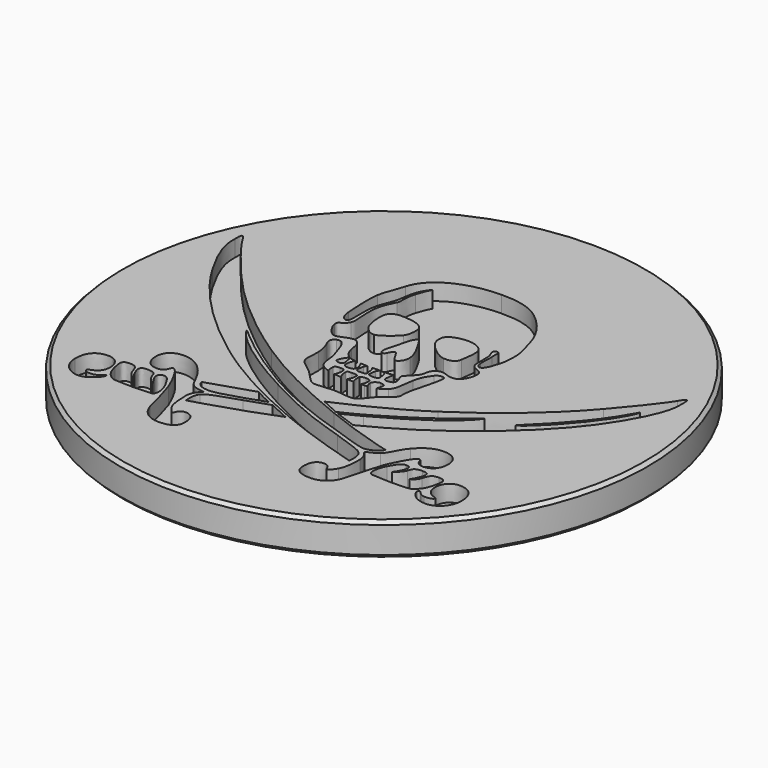
from build123d import *

# Parameters (mm, degrees)
POCKET_DEPTH = 1.25


with BuildPart() as part:
    # Sketch (on DatumPlane) → Revolution (revolve)
    with BuildSketch(Plane.YZ):
        Polygon((0, 0), (0, -2.5), (19.75, -2.5), (20, -2.25), (20, -0.25), (19.75, 0), align=None)
    revolve(axis=Axis((0, 0, 0), (0, 0, 1)))

    # Sketch005 → Pocket (cut)
    with BuildSketch(Plane.XY):
        with BuildLine():
            add(Edge.make_bspline(
                [(16.874234, 7.137182), (16.857089, 6.721201), (17.037826, 5.873595), (15.4612, 3.242552)],
                knots=[0, 0, 0, 0, 1, 1, 1, 1], degree=3))
            add(Edge.make_bspline(
                [(15.4612, 3.242552), (13.70098, 0.304327), (10.986355, -2.137406), (8.324594, -4.114796)],
                knots=[0, 0, 0, 0, 1, 1, 1, 1], degree=3))
            add(Edge.make_bspline(
                [(8.324594, -4.114796), (6.719393, -5.307088), (5.074188, -6.275066), (3.366117, -7.131602)],
                knots=[0, 0, 0, 0, 1, 1, 1, 1], degree=3))
            add(Edge.make_bspline(
                [(3.366117, -7.131602), (2.921776, -6.986584), (2.374564, -6.795846), (1.763059, -6.55653)],
                knots=[0, 0, 0, 0, 1, 1, 1, 1], degree=3))
            add(Edge.make_bspline(
                [(1.763059, -6.55653), (1.758773, -6.555816), (1.755201, -6.553673), (1.750915, -6.552244)],
                knots=[0, 0, 0, 0, 1, 1, 1, 1], degree=3))
            add(Edge.make_bspline(
                [(1.750915, -6.552244), (2.175254, -6.341503), (2.633883, -6.105759), (3.135374, -5.838583)],
                knots=[0, 0, 0, 0, 1, 1, 1, 1], degree=3))
            add(Edge.make_bspline(
                [(3.135374, -5.838583), (8.051703, -3.222542), (8.962531, -1.645202), (8.919668, -1.602339)],
                knots=[0, 0, 0, 0, 1, 1, 1, 1], degree=3))
            add(Edge.make_bspline(
                [(8.919668, -1.602339), (8.876806, -1.559477), (7.640937, -2.999657), (3.403264, -5.467108)],
                knots=[0, 0, 0, 0, 1, 1, 1, 1], degree=3))
            add(Edge.make_bspline(
                [(3.403264, -5.467108), (2.786044, -5.826439), (2.153823, -6.152194), (1.509456, -6.449374)],
                knots=[0, 0, 0, 0, 1, 1, 1, 1], degree=3))
            add(Edge.make_bspline(
                [(1.509456, -6.449374), (1.032254, -6.252206), (0.564338, -6.037179), (0.165003, -5.834297)],
                knots=[0, 0, 0, 0, 1, 1, 1, 1], degree=3))
            add(Edge.make_bspline(
                [(0.165003, -5.834297), (2.223117, -4.942043), (4.416248, -3.831189), (6.213616, -2.643184)],
                knots=[0, 0, 0, 0, 1, 1, 1, 1], degree=3))
            add(Edge.make_bspline(
                [(6.213616, -2.643184), (8.978961, -0.815098), (11.582858, 1.327312), (13.647402, 3.733328)],
                knots=[0, 0, 0, 0, 1, 1, 1, 1], degree=3))
            add(Edge.make_bspline(
                [(13.647402, 3.733328), (15.534066, 5.931031), (16.309163, 7.062672), (16.428464, 7.2857)],
                knots=[0, 0, 0, 0, 1, 1, 1, 1], degree=3))
            add(Edge.make_bspline(
                [(16.428464, 7.2857), (16.614916, 7.636315), (16.914953, 8.119304), (16.874234, 7.137182)],
                knots=[0, 0, 0, 0, 1, 1, 1, 1], degree=3))
        make_face()
        with BuildLine():
            add(Edge.make_bspline(
                [(15.619791, 4.719236), (15.561213, 4.739096), (15.144732, 3.649031), (13.657403, 1.825946)],
                knots=[0, 0, 0, 0, 1, 1, 1, 1], degree=3))
            add(Edge.make_bspline(
                [(13.657403, 1.825946), (12.173646, 0.006433), (10.842051, -1.087275), (10.902059, -1.146568)],
                knots=[0, 0, 0, 0, 1, 1, 1, 1], degree=3))
            add(Edge.make_bspline(
                [(10.902059, -1.146568), (10.961352, -1.205861), (12.098637, -0.399332), (13.835997, 1.766653)],
                knots=[0, 0, 0, 0, 1, 1, 1, 1], degree=3))
            add(Edge.make_bspline(
                [(13.835997, 1.766653), (15.399049, 3.714754), (15.679799, 4.699591), (15.619791, 4.719236)],
                knots=[0, 0, 0, 0, 1, 1, 1, 1], degree=3))
        make_face(mode=Mode.SUBTRACT)
        with BuildLine():
            add(Edge.make_bspline(
                [(4.662707, 3.323276), (4.444823, 3.263983), (4.336953, 3.529731), (4.320522, 3.748329)],
                knots=[0, 0, 0, 0, 1, 1, 1, 1], degree=3))
            add(Edge.make_bspline(
                [(4.320522, 3.748329), (4.280517, 4.263537), (4.368385, 4.571718), (4.325522, 4.846681)],
                knots=[0, 0, 0, 0, 1, 1, 1, 1], degree=3))
            add(Edge.make_bspline(
                [(4.325522, 4.846681), (4.277659, 5.158077), (4.447681, 5.66214), (4.059775, 5.495048)],
                knots=[0, 0, 0, 0, 1, 1, 1, 1], degree=3))
            add(Edge.make_bspline(
                [(4.059775, 5.495048), (3.839747, 5.40025), (4.022627, 5.15522), (4.101923, 4.897687)],
                knots=[0, 0, 0, 0, 1, 1, 1, 1], degree=3))
            add(Edge.make_bspline(
                [(4.101923, 4.897687), (4.181219, 4.640084), (4.161216, 3.772618), (4.161216, 3.589738)],
                knots=[0, 0, 0, 0, 1, 1, 1, 1], degree=3))
            add(Edge.make_bspline(
                [(4.161216, 3.589738), (4.161216, 3.272556), (4.33981, 3.086818), (4.815584, 2.916082)],
                knots=[0, 0, 0, 0, 1, 1, 1, 1], degree=3))
            add(Edge.make_bspline(
                [(4.815584, 2.916082), (5.362795, 2.718915), (4.927741, 1.437326), (4.399817, 1.290879)],
                knots=[0, 0, 0, 0, 1, 1, 1, 1], degree=3))
            add(Edge.make_bspline(
                [(4.399817, 1.290879), (3.851177, 1.138003), (3.543282, 1.516622), (3.150376, 1.449471)],
                knots=[0, 0, 0, 0, 1, 1, 1, 1], degree=3))
            add(Edge.make_bspline(
                [(3.150376, 1.449471), (2.456717, 1.33017), (2.595306, 0.656514), (2.456717, 0.43863)],
                knots=[0, 0, 0, 0, 1, 1, 1, 1], degree=3))
            add(Edge.make_bspline(
                [(2.456717, 0.43863), (2.318129, 0.220746), (2.318129, 0.220746), (2.080242, -0.017141)],
                knots=[0, 0, 0, 0, 1, 1, 1, 1], degree=3))
            add(Edge.make_bspline(
                [(2.080242, -0.017141), (1.90522, -0.192163), (1.79092, -0.332181), (1.668048, -0.442909)],
                knots=[0, 0, 0, 0, 1, 1, 1, 1], degree=3))
            add(Edge.make_bspline(
                [(1.668048, -0.442909), (1.687336, -0.459339), (1.700909, -0.487914), (1.704481, -0.535778)],
                knots=[0, 0, 0, 0, 1, 1, 1, 1], degree=3))
            add(Edge.make_bspline(
                [(1.704481, -0.535778), (1.719482, -0.744375), (1.886646, -0.904395), (1.886646, -1.112278)],
                knots=[0, 0, 0, 0, 1, 1, 1, 1], degree=3))
            add(Edge.make_bspline(
                [(1.886646, -1.112278), (1.886646, -1.320161), (1.820209, -1.394456), (1.552319, -1.453749)],
                knots=[0, 0, 0, 0, 1, 1, 1, 1], degree=3))
            add(Edge.make_bspline(
                [(1.552319, -1.453749), (1.285142, -1.513042), (1.167271, -1.409458), (1.152269, -1.320161)],
                knots=[0, 0, 0, 0, 1, 1, 1, 1], degree=3))
            add(Edge.make_bspline(
                [(1.152269, -1.320161), (1.137267, -1.230864), (1.174414, -0.905824), (1.217991, -0.732231)],
                knots=[0, 0, 0, 0, 1, 1, 1, 1], degree=3))
            add(Edge.make_bspline(
                [(1.217991, -0.732231), (1.231564, -0.675081), (1.251567, -0.640076), (1.272284, -0.616502)],
                knots=[0, 0, 0, 0, 1, 1, 1, 1], degree=3))
            add(Edge.make_bspline(
                [(1.272284, -0.616502), (1.055114, -0.655793), (0.783651, -0.671509), (0.593628, -0.671509)],
                knots=[0, 0, 0, 0, 1, 1, 1, 1], degree=3))
            add(Edge.make_bspline(
                [(0.593628, -0.671509), (0.572196, -0.671509)],
                knots=[0, 0, 0.3, 0.3], degree=1))
            add(Edge.make_bspline(
                [(0.572196, -0.671509), (0.617916, -0.702227), (0.667923, -0.754376), (0.699355, -0.850103)],
                knots=[0, 0, 0, 0, 1, 1, 1, 1], degree=3))
            add(Edge.make_bspline(
                [(0.699355, -0.850103), (0.775079, -1.075845), (0.786509, -1.245866), (0.801511, -1.379454)],
                knots=[0, 0, 0, 0, 1, 1, 1, 1], degree=3))
            add(Edge.make_bspline(
                [(0.801511, -1.379454), (0.816513, -1.513042), (0.637919, -1.558048), (0.459325, -1.57305)],
                knots=[0, 0, 0, 0, 1, 1, 1, 1], degree=3))
            add(Edge.make_bspline(
                [(0.459325, -1.57305), (0.280731, -1.588052), (0.072848, -1.528759), (0.042844, -1.453749)],
                knots=[0, 0, 0, 0, 1, 1, 1, 1], degree=3))
            add(Edge.make_bspline(
                [(0.042844, -1.453749), (0.013555, -1.379454), (0.062133, -1.07013), (0.092851, -0.909396)],
                knots=[0, 0, 0, 0, 1, 1, 1, 1], degree=3))
            add(Edge.make_bspline(
                [(0.092851, -0.909396), (0.111424, -0.811526), (0.210722, -0.72723), (0.287875, -0.675795)],
                knots=[0, 0, 0, 0, 1, 1, 1, 1], degree=3))
            add(Edge.make_bspline(
                [(0.287875, -0.675795), (0.086421, -0.680081), (-0.127177, -0.687225), (-0.345776, -0.690797)],
                knots=[0, 0, 0, 0, 1, 1, 1, 1], degree=3))
            add(Edge.make_bspline(
                [(-0.345776, -0.690797), (-0.287911, -0.752948), (-0.230761, -0.8301), (-0.217188, -0.904395)],
                knots=[0, 0, 0, 0, 1, 1, 1, 1], degree=3))
            add(Edge.make_bspline(
                [(-0.217188, -0.904395), (-0.187184, -1.064415), (-0.120748, -1.305874), (-0.135035, -1.409458)],
                knots=[0, 0, 0, 0, 1, 1, 1, 1], degree=3))
            add(Edge.make_bspline(
                [(-0.135035, -1.409458), (-0.150751, -1.513042), (-0.195043, -1.543046), (-0.477221, -1.558048)],
                knots=[0, 0, 0, 0, 1, 1, 1, 1], degree=3))
            add(Edge.make_bspline(
                [(-0.477221, -1.558048), (-0.760113, -1.57305), (-0.855125, -1.528759), (-0.885129, -1.469466)],
                knots=[0, 0, 0, 0, 1, 1, 1, 1], degree=3))
            add(Edge.make_bspline(
                [(-0.885129, -1.469466), (-0.915133, -1.409458), (-0.863698, -1.052985), (-0.827979, -0.905824)],
                knots=[0, 0, 0, 0, 1, 1, 1, 1], degree=3))
            add(Edge.make_bspline(
                [(-0.827979, -0.905824), (-0.808691, -0.827243), (-0.750112, -0.749376), (-0.695819, -0.691511)],
                knots=[0, 0, 0, 0, 1, 1, 1, 1], degree=3))
            add(Edge.make_bspline(
                [(-0.695819, -0.691511), (-0.87227, -0.690083), (-1.048006, -0.682939), (-1.218742, -0.668651)],
                knots=[0, 0, 0, 0, 1, 1, 1, 1], degree=3))
            add(Edge.make_bspline(
                [(-1.218742, -0.668651), (-1.176594, -0.785094), (-0.985141, -0.984405), (-1.035862, -1.305159)],
                knots=[0, 0, 0, 0, 1, 1, 1, 1], degree=3))
            add(Edge.make_bspline(
                [(-1.035862, -1.305159), (-1.064437, -1.483039), (-1.148019, -1.557334), (-1.533781, -1.558048)],
                knots=[0, 0, 0, 0, 1, 1, 1, 1], degree=3))
            add(Edge.make_bspline(
                [(-1.533781, -1.558048), (-1.756666, -1.558763), (-1.859536, -1.409458), (-1.860251, -1.305874)],
                knots=[0, 0, 0, 0, 1, 1, 1, 1], degree=3))
            add(Edge.make_bspline(
                [(-1.860251, -1.305874), (-1.861679, -1.020838), (-1.74095, -0.821528), (-1.677371, -0.617931)],
                knots=[0, 0, 0, 0, 1, 1, 1, 1], degree=3))
            add(Edge.make_bspline(
                [(-1.677371, -0.617931), (-1.891683, -0.593642), (-2.021699, -0.576497), (-2.127427, -0.532206)],
                knots=[0, 0, 0, 0, 1, 1, 1, 1], degree=3))
            add(Edge.make_bspline(
                [(-2.127427, -0.532206), (-2.112425, -0.628646), (-2.055275, -0.882249), (-2.023843, -1.141568)],
                knots=[0, 0, 0, 0, 1, 1, 1, 1], degree=3))
            add(Edge.make_bspline(
                [(-2.023843, -1.141568), (-2.00384, -1.305159), (-2.083136, -1.394456), (-2.276731, -1.394456)],
                knots=[0, 0, 0, 0, 1, 1, 1, 1], degree=3))
            add(Edge.make_bspline(
                [(-2.276731, -1.394456), (-2.469613, -1.394456), (-2.588913, -1.290872), (-2.588913, -1.201575)],
                knots=[0, 0, 0, 0, 1, 1, 1, 1], degree=3))
            add(Edge.make_bspline(
                [(-2.588913, -1.201575), (-2.588913, -0.963688), (-2.239584, -0.52149), (-2.211009, -0.502202)],
                knots=[0, 0, 0, 0, 1, 1, 1, 1], degree=3))
            add(Edge.make_bspline(
                [(-2.211009, -0.502202), (-2.208151, -0.500059), (-2.204579, -0.497201), (-2.201008, -0.495058)],
                knots=[0, 0, 0, 0, 1, 1, 1, 1], degree=3))
            add(Edge.make_bspline(
                [(-2.201008, -0.495058), (-2.22101, -0.482914), (-2.241727, -0.468626), (-2.261729, -0.45291)],
                knots=[0, 0, 0, 0, 1, 1, 1, 1], degree=3))
            add(Edge.make_bspline(
                [(-2.261729, -0.45291), (-2.440323, -0.314321), (-2.658208, -0.117154), (-2.773936, 0.385766)],
                knots=[0, 0, 0, 0, 1, 1, 1, 1], degree=3))
            add(Edge.make_bspline(
                [(-2.773936, 0.385766), (-2.890379, 0.888686), (-2.848946, 1.195153), (-3.236137, 1.427325)],
                knots=[0, 0, 0, 0, 1, 1, 1, 1], degree=3))
            add(Edge.make_bspline(
                [(-3.236137, 1.427325), (-3.622614, 1.659497), (-4.319844, 1.104427), (-4.668459, 1.140861)],
                knots=[0, 0, 0, 0, 1, 1, 1, 1], degree=3))
            add(Edge.make_bspline(
                [(-4.668459, 1.140861), (-5.056364, 1.18158), (-5.54714, 1.957391), (-5.578573, 2.323151)],
                knots=[0, 0, 0, 0, 1, 1, 1, 1], degree=3))
            add(Edge.make_bspline(
                [(-5.578573, 2.323151), (-5.61572, 2.750347), (-5.198525, 2.551751), (-4.961353, 3.092533)],
                knots=[0, 0, 0, 0, 1, 1, 1, 1], degree=3))
            add(Edge.make_bspline(
                [(-4.961353, 3.092533), (-4.810619, 3.436862), (-4.960638, 3.86763), (-4.960638, 4.834322)],
                knots=[0, 0, 0, 0, 1, 1, 1, 1], degree=3))
            add(Edge.make_bspline(
                [(-4.960638, 4.834322), (-4.960638, 5.801443), (-4.627739, 6.293862), (-4.417713, 6.768421)],
                knots=[0, 0, 0, 0, 1, 1, 1, 1], degree=3))
            add(Edge.make_bspline(
                [(-4.417713, 6.768421), (-4.264837, 7.113821), (-4.477006, 7.370639), (-4.206973, 8.273252)],
                knots=[0, 0, 0, 0, 1, 1, 1, 1], degree=3))
            add(Edge.make_bspline(
                [(-4.206973, 8.273252), (-3.976944, 9.044063), (-3.769061, 9.330813), (-3.769061, 9.330813)],
                knots=[0, 0, 0, 0, 1, 1, 1, 1], degree=3))
            add(Edge.make_bspline(
                [(-3.769061, 9.330813), (-3.769061, 9.330813), (-4.139821, 9.02556), (-4.35842, 8.306256)],
                knots=[0, 0, 0, 0, 1, 1, 1, 1], degree=3))
            add(Edge.make_bspline(
                [(-4.35842, 8.306256), (-4.551301, 7.669677), (-4.492008, 7.348708), (-4.647028, 6.845859)],
                knots=[0, 0, 0, 0, 1, 1, 1, 1], degree=3))
            add(Edge.make_bspline(
                [(-4.647028, 6.845859), (-4.802047, 6.343011), (-5.035648, 6.011755), (-5.152091, 5.238158)],
                knots=[0, 0, 0, 0, 1, 1, 1, 1], degree=3))
            add(Edge.make_bspline(
                [(-5.152091, 5.238158), (-5.267819, 4.46449), (-5.073509, 3.521158), (-5.267819, 3.208976)],
                knots=[0, 0, 0, 0, 1, 1, 1, 1], degree=3))
            add(Edge.make_bspline(
                [(-5.267819, 3.208976), (-5.399264, 2.998236), (-5.833604, 3.226121), (-5.89004, 4.001932)],
                knots=[0, 0, 0, 0, 1, 1, 1, 1], degree=3))
            add(Edge.make_bspline(
                [(-5.89004, 4.001932), (-5.938618, 4.668301), (-6.025057, 5.985395), (-5.909328, 6.758991)],
                knots=[0, 0, 0, 0, 1, 1, 1, 1], degree=3))
            add(Edge.make_bspline(
                [(-5.909328, 6.758991), (-5.792885, 7.532659), (-5.724305, 7.244981), (-5.314968, 8.667516)],
                knots=[0, 0, 0, 0, 1, 1, 1, 1], degree=3))
            add(Edge.make_bspline(
                [(-5.314968, 8.667516), (-4.832765, 10.344082), (-2.729645, 11.364781), (-0.218617, 11.399)],
                knots=[0, 0, 0, 0, 1, 1, 1, 1], degree=3))
            add(Edge.make_bspline(
                [(-0.218617, 11.399), (1.975229, 11.428932), (2.776757, 10.718343), (3.493276, 10.041687)],
                knots=[0, 0, 0, 0, 1, 1, 1, 1], degree=3))
            add(Edge.make_bspline(
                [(3.493276, 10.041687), (4.240512, 9.335885), (4.762006, 8.348761), (4.920597, 7.714539)],
                knots=[0, 0, 0, 0, 1, 1, 1, 1], degree=3))
            add(Edge.make_bspline(
                [(4.920597, 7.714539), (5.079188, 7.080317), (5.217777, 6.817141), (5.317075, 6.281932)],
                knots=[0, 0, 0, 0, 1, 1, 1, 1], degree=3))
            add(Edge.make_bspline(
                [(5.317075, 6.281932), (5.416373, 5.746936), (5.362795, 4.969768), (5.26564, 4.583291)],
                knots=[0, 0, 0, 0, 1, 1, 1, 1], degree=3))
            add(Edge.make_bspline(
                [(5.26564, 4.583291), (5.158484, 4.15338), (4.947029, 3.401143), (4.662707, 3.323276)],
                knots=[0, 0, 0, 0, 1, 1, 1, 1], degree=3))
        make_face()
        with BuildLine():
            add(Edge.make_bspline(
                [(-1.354473, 5.026418), (-1.637366, 5.472331), (-2.396032, 5.549483), (-2.97539, 5.576415)],
                knots=[0, 0, 0, 0, 1, 1, 1, 1], degree=3))
            add(Edge.make_bspline(
                [(-2.97539, 5.576415), (-3.614756, 5.606204), (-3.964799, 5.409394), (-4.031236, 4.922333)],
                knots=[0, 0, 0, 0, 1, 1, 1, 1], degree=3))
            add(Edge.make_bspline(
                [(-4.031236, 4.922333), (-4.084814, 4.529641), (-4.016234, 3.941211), (-3.882646, 3.510442)],
                knots=[0, 0, 0, 0, 1, 1, 1, 1], degree=3))
            add(Edge.make_bspline(
                [(-3.882646, 3.510442), (-3.766203, 3.135396), (-3.302574, 2.63319), (-2.901095, 2.693198)],
                knots=[0, 0, 0, 0, 1, 1, 1, 1], degree=3))
            add(Edge.make_bspline(
                [(-2.901095, 2.693198), (-2.578197, 2.740346), (-1.890254, 3.255411), (-1.488776, 3.718326)],
                knots=[0, 0, 0, 0, 1, 1, 1, 1], degree=3))
            add(Edge.make_bspline(
                [(-1.488776, 3.718326), (-1.248031, 3.995503), (-1.218742, 4.811677), (-1.354473, 5.026418)],
                knots=[0, 0, 0, 0, 1, 1, 1, 1], degree=3))
        make_face(mode=Mode.SUBTRACT)
        with BuildLine():
            add(Edge.make_bspline(
                [(-0.462219, 3.822624), (-0.611523, 3.811909), (-0.834408, 3.317561), (-0.937993, 2.693198)],
                knots=[0, 0, 0, 0, 1, 1, 1, 1], degree=3))
            add(Edge.make_bspline(
                [(-0.937993, 2.693198), (-1.006572, 2.281718), (-1.279464, 1.70736), (-1.220885, 1.355173)],
                knots=[0, 0, 0, 0, 1, 1, 1, 1], degree=3))
            add(Edge.make_bspline(
                [(-1.220885, 1.355173), (-1.181594, 1.118715), (-0.962281, 1.085139), (-0.834408, 1.340171)],
                knots=[0, 0, 0, 0, 1, 1, 1, 1], degree=3))
            add(Edge.make_bspline(
                [(-0.834408, 1.340171), (-0.730109, 1.548769), (-0.670816, 1.74165), (-0.522226, 1.74165)],
                knots=[0, 0, 0, 0, 1, 1, 1, 1], degree=3))
            add(Edge.make_bspline(
                [(-0.522226, 1.74165), (-0.373636, 1.74165), (-0.045024, 0.870827), (0.147143, 0.894401)],
                knots=[0, 0, 0, 0, 1, 1, 1, 1], degree=3))
            add(Edge.make_bspline(
                [(0.147143, 0.894401), (0.369314, 0.921547), (0.642205, 1.265876), (0.607915, 1.697359)],
                knots=[0, 0, 0, 0, 1, 1, 1, 1], degree=3))
            add(Edge.make_bspline(
                [(0.607915, 1.697359), (0.577911, 2.068834), (0.429321, 2.440309), (0.206436, 2.826786)],
                knots=[0, 0, 0, 0, 1, 1, 1, 1], degree=3))
            add(Edge.make_bspline(
                [(0.206436, 2.826786), (-0.016449, 3.213263), (-0.315058, 3.832626), (-0.462219, 3.822624)],
                knots=[0, 0, 0, 0, 1, 1, 1, 1], degree=3))
        make_face(mode=Mode.SUBTRACT)
        with BuildLine():
            add(Edge.make_bspline(
                [(3.150376, 5.026418), (2.927491, 5.323812), (2.541014, 5.576415), (1.782348, 5.531767)],
                knots=[0, 0, 0, 0, 1, 1, 1, 1], degree=3))
            add(Edge.make_bspline(
                [(1.782348, 5.531767), (1.155126, 5.494905), (0.530763, 5.241587), (0.474327, 4.818392)],
                knots=[0, 0, 0, 0, 1, 1, 1, 1], degree=3))
            add(Edge.make_bspline(
                [(0.474327, 4.818392), (0.415034, 4.372479), (0.541478, 4.139807), (0.786509, 3.837626)],
                knots=[0, 0, 0, 0, 1, 1, 1, 1], degree=3))
            add(Edge.make_bspline(
                [(0.786509, 3.837626), (1.039398, 3.525444), (1.753058, 2.916082), (2.21383, 2.886079)],
                knots=[0, 0, 0, 0, 1, 1, 1, 1], degree=3))
            add(Edge.make_bspline(
                [(2.21383, 2.886079), (2.674602, 2.856075), (3.076081, 2.960374), (3.135374, 3.421146)],
                knots=[0, 0, 0, 0, 1, 1, 1, 1], degree=3))
            add(Edge.make_bspline(
                [(3.135374, 3.421146), (3.195381, 3.881917), (3.373261, 4.729238), (3.150376, 5.026418)],
                knots=[0, 0, 0, 0, 1, 1, 1, 1], degree=3))
        make_face(mode=Mode.SUBTRACT)
        with BuildLine():
            add(Edge.make_bspline(
                [(2.124533, -2.212344), (2.481721, -1.855157), (2.422428, -1.245795), (2.571017, -0.472841)],
                knots=[0, 0, 0, 0, 1, 1, 1, 1], degree=3))
            add(Edge.make_bspline(
                [(2.571017, -0.472841), (2.719607, 0.300113), (2.986784, 0.538), (3.165378, 0.805176)],
                knots=[0, 0, 0, 0, 1, 1, 1, 1], degree=3))
            add(Edge.make_bspline(
                [(3.165378, 0.805176), (3.343971, 1.073066), (3.769739, 1.036633), (3.819745, 0.924476)],
                knots=[0, 0, 0, 0, 1, 1, 1, 1], degree=3))
            add(Edge.make_bspline(
                [(3.819745, 0.924476), (3.879038, 0.790174), (3.697587, -0.112082), (3.521851, -0.695726)],
                knots=[0, 0, 0, 0, 1, 1, 1, 1], degree=3))
            add(Edge.make_bspline(
                [(3.521851, -0.695726), (3.254674, -1.58798), (3.239673, -1.944454), (3.224671, -2.405225)],
                knots=[0, 0, 0, 0, 1, 1, 1, 1], degree=3))
            add(Edge.make_bspline(
                [(3.224671, -2.405225), (3.212526, -2.798846), (2.585305, -3.103884), (2.258121, -3.416066)],
                knots=[0, 0, 0, 0, 1, 1, 1, 1], degree=3))
            add(Edge.make_bspline(
                [(2.258121, -3.416066), (1.930937, -3.727534), (1.633757, -4.307606), (1.232279, -4.426192)],
                knots=[0, 0, 0, 0, 1, 1, 1, 1], degree=3))
            add(Edge.make_bspline(
                [(1.232279, -4.426192), (0.8308, -4.545493), (0.265729, -4.33761), (-0.343633, -4.351897)],
                knots=[0, 0, 0, 0, 1, 1, 1, 1], degree=3))
            add(Edge.make_bspline(
                [(-0.343633, -4.351897), (-0.952994, -4.366899), (-1.563071, -4.515489), (-1.88954, -4.396189)],
                knots=[0, 0, 0, 0, 1, 1, 1, 1], degree=3))
            add(Edge.make_bspline(
                [(-1.88954, -4.396189), (-2.216724, -4.277602), (-2.588913, -3.727534), (-3.005394, -3.356059)],
                knots=[0, 0, 0, 0, 1, 1, 1, 1], degree=3))
            add(Edge.make_bspline(
                [(-3.005394, -3.356059), (-3.42116, -2.984584), (-3.911936, -2.761699), (-4.060526, -2.405225)],
                knots=[0, 0, 0, 0, 1, 1, 1, 1], degree=3))
            add(Edge.make_bspline(
                [(-4.060526, -2.405225), (-4.209116, -2.048038), (-4.060526, -1.61727), (-4.090529, -1.067201)],
                knots=[0, 0, 0, 0, 1, 1, 1, 1], degree=3))
            add(Edge.make_bspline(
                [(-4.090529, -1.067201), (-4.119819, -0.517132), (-4.268409, -0.175661), (-4.417713, 0.151523)],
                knots=[0, 0, 0, 0, 1, 1, 1, 1], degree=3))
            add(Edge.make_bspline(
                [(-4.417713, 0.151523), (-4.566303, 0.478706), (-4.467005, 0.71445), (-4.224118, 0.805176)],
                knots=[0, 0, 0, 0, 1, 1, 1, 1], degree=3))
            add(Edge.make_bspline(
                [(-4.224118, 0.805176), (-3.867644, 0.938764), (-3.614756, 0.641584), (-3.436162, 0.077228)],
                knots=[0, 0, 0, 0, 1, 1, 1, 1], degree=3))
            add(Edge.make_bspline(
                [(-3.436162, 0.077228), (-3.24971, -0.512132), (-3.084689, -0.858604), (-3.049685, -1.350094)],
                knots=[0, 0, 0, 0, 1, 1, 1, 1], degree=3))
            add(Edge.make_bspline(
                [(-3.049685, -1.350094), (-3.004679, -1.973743), (-2.915383, -2.093044), (-2.707499, -2.315929)],
                knots=[0, 0, 0, 0, 1, 1, 1, 1], degree=3))
            add(Edge.make_bspline(
                [(-2.707499, -2.315929), (-2.588913, -2.443087), (-2.370314, -2.518811), (-2.141, -2.58239)],
                knots=[0, 0, 0, 0, 1, 1, 1, 1], degree=3))
            add(Edge.make_bspline(
                [(-2.141, -2.58239), (-2.183148, -2.470948), (-2.22101, -2.32593), (-2.201722, -2.06304)],
                knots=[0, 0, 0, 0, 1, 1, 1, 1], degree=3))
            add(Edge.make_bspline(
                [(-2.201722, -2.06304), (-2.192435, -1.928737), (-2.083136, -1.884446), (-1.845249, -1.869444)],
                knots=[0, 0, 0, 0, 1, 1, 1, 1], degree=3))
            add(Edge.make_bspline(
                [(-1.845249, -1.869444), (-1.607362, -1.855157), (-1.449485, -1.91445), (-1.44377, -2.03375)],
                knots=[0, 0, 0, 0, 1, 1, 1, 1], degree=3))
            add(Edge.make_bspline(
                [(-1.44377, -2.03375), (-1.423768, -2.425228), (-1.519494, -2.593106), (-1.588074, -2.724551)],
                knots=[0, 0, 0, 0, 1, 1, 1, 1], degree=3))
            add(Edge.make_bspline(
                [(-1.588074, -2.724551), (-1.459486, -2.744554), (-1.270891, -2.755984), (-1.053721, -2.762413)],
                knots=[0, 0, 0, 0, 1, 1, 1, 1], degree=3))
            add(Edge.make_bspline(
                [(-1.053721, -2.762413), (-1.134446, -2.600964), (-1.220171, -2.415227), (-1.220885, -2.107331)],
                knots=[0, 0, 0, 0, 1, 1, 1, 1], degree=3))
            add(Edge.make_bspline(
                [(-1.220885, -2.107331), (-1.220885, -1.931595), (-1.086583, -1.958741), (-0.863698, -1.944454)],
                knots=[0, 0, 0, 0, 1, 1, 1, 1], degree=3))
            add(Edge.make_bspline(
                [(-0.863698, -1.944454), (-0.640812, -1.929452), (-0.411498, -1.926594), (-0.402926, -2.078042)],
                knots=[0, 0, 0, 0, 1, 1, 1, 1], degree=3))
            add(Edge.make_bspline(
                [(-0.402926, -2.078042), (-0.385781, -2.383794), (-0.490079, -2.58239), (-0.585806, -2.768842)],
                knots=[0, 0, 0, 0, 1, 1, 1, 1], degree=3))
            add(Edge.make_bspline(
                [(-0.585806, -2.768842), (-0.425071, -2.769557), (-0.262194, -2.768128), (-0.10646, -2.765985)],
                knots=[0, 0, 0, 0, 1, 1, 1, 1], degree=3))
            add(Edge.make_bspline(
                [(-0.10646, -2.765985), (-0.171468, -2.564531), (-0.228618, -2.304499), (-0.195043, -2.078042)],
                knots=[0, 0, 0, 0, 1, 1, 1, 1], degree=3))
            add(Edge.make_bspline(
                [(-0.195043, -2.078042), (-0.181469, -1.98803), (0.013555, -1.958741), (0.192149, -1.944454)],
                knots=[0, 0, 0, 0, 1, 1, 1, 1], degree=3))
            add(Edge.make_bspline(
                [(0.192149, -1.944454), (0.370028, -1.929452), (0.587198, -2.01732), (0.593628, -2.122333)],
                knots=[0, 0, 0, 0, 1, 1, 1, 1], degree=3))
            add(Edge.make_bspline(
                [(0.593628, -2.122333), (0.606486, -2.35379), (0.536477, -2.578104), (0.455753, -2.754555)],
                knots=[0, 0, 0, 0, 1, 1, 1, 1], degree=3))
            add(Edge.make_bspline(
                [(0.455753, -2.754555), (0.562909, -2.751697), (0.655778, -2.74884), (0.726501, -2.746697)],
                knots=[0, 0, 0, 0, 1, 1, 1, 1], degree=3))
            add(Edge.make_bspline(
                [(0.726501, -2.746697), (0.794367, -2.744554), (0.861518, -2.740267), (0.929384, -2.732409)],
                knots=[0, 0, 0, 0, 1, 1, 1, 1], degree=3))
            add(Edge.make_bspline(
                [(0.929384, -2.732409), (0.852946, -2.588105), (0.777936, -2.405225), (0.786509, -2.256635)],
                knots=[0, 0, 0, 0, 1, 1, 1, 1], degree=3))
            add(Edge.make_bspline(
                [(0.786509, -2.256635), (0.792938, -2.13662), (1.054399, -1.884446), (1.262282, -1.899448)],
                knots=[0, 0, 0, 0, 1, 1, 1, 1], degree=3))
            add(Edge.make_bspline(
                [(1.262282, -1.899448), (1.428017, -1.911592), (1.605897, -1.946597), (1.615184, -2.035894)],
                knots=[0, 0, 0, 0, 1, 1, 1, 1], degree=3))
            add(Edge.make_bspline(
                [(1.615184, -2.035894), (1.634472, -2.223774), (1.575179, -2.4288), (1.503027, -2.599535)],
                knots=[0, 0, 0, 0, 1, 1, 1, 1], degree=3))
            add(Edge.make_bspline(
                [(1.503027, -2.599535), (1.735913, -2.512382), (1.95094, -2.384509), (2.124533, -2.212344)],
                knots=[0, 0, 0, 0, 1, 1, 1, 1], degree=3))
        make_face()
        with BuildLine():
            add(Edge.make_bspline(
                [(6.835836, -8.410262), (6.835836, -8.410262), (6.858696, -8.718157), (6.164324, -8.974618)],
                knots=[0, 0, 0, 0, 1, 1, 1, 1], degree=3))
            add(Edge.make_bspline(
                [(6.164324, -8.974618), (5.755701, -9.126065), (5.677834, -9.205361), (3.501134, -8.424549)],
                knots=[0, 0, 0, 0, 1, 1, 1, 1], degree=3))
            add(Edge.make_bspline(
                [(3.501134, -8.424549), (2.845337, -8.18952), (-0.727252, -7.167964), (-3.626186, -5.467037)],
                knots=[0, 0, 0, 0, 1, 1, 1, 1], degree=3))
            add(Edge.make_bspline(
                [(-3.626186, -5.467037), (-7.832426, -2.999585), (-9.029718, -1.545118), (-9.101156, -1.602268)],
                knots=[0, 0, 0, 0, 1, 1, 1, 1], degree=3))
            add(Edge.make_bspline(
                [(-9.101156, -1.602268), (-9.172593, -1.659418), (-8.239619, -3.22247), (-3.361152, -5.838512)],
                knots=[0, 0, 0, 0, 1, 1, 1, 1], degree=3))
            add(Edge.make_bspline(
                [(-3.361152, -5.838512), (0.500759, -7.90877), (1.84807, -8.142371), (3.441841, -8.706727)],
                knots=[0, 0, 0, 0, 1, 1, 1, 1], degree=3))
            add(Edge.make_bspline(
                [(3.441841, -8.706727), (5.396371, -9.399671), (5.596396, -9.413959), (5.862143, -9.73257)],
                knots=[0, 0, 0, 0, 1, 1, 1, 1], degree=3))
            add(Edge.make_bspline(
                [(5.862143, -9.73257), (6.152179, -10.079756), (6.039308, -10.832707), (6.039308, -10.832707)],
                knots=[0, 0, 0, 0, 1, 1, 1, 1], degree=3))
            add(Edge.make_bspline(
                [(6.039308, -10.832707), (6.039308, -10.832707), (2.495294, -9.826153), (-0.158609, -8.706727)],
                knots=[0, 0, 0, 0, 1, 1, 1, 1], degree=3))
            add(Edge.make_bspline(
                [(-0.158609, -8.706727), (-3.12398, -7.457285), (-5.869323, -6.0914), (-8.511082, -4.114725)],
                knots=[0, 0, 0, 0, 1, 1, 1, 1], degree=3))
            add(Edge.make_bspline(
                [(-8.511082, -4.114725), (-11.152483, -2.137335), (-13.847034, 0.304399), (-15.594396, 3.242623)],
                knots=[0, 0, 0, 0, 1, 1, 1, 1], degree=3))
            add(Edge.make_bspline(
                [(-15.594396, 3.242623), (-17.158591, 5.873738), (-16.979069, 6.721272), (-16.996214, 7.137253)],
                knots=[0, 0, 0, 0, 1, 1, 1, 1], degree=3))
            add(Edge.make_bspline(
                [(-16.996214, 7.137253), (-17.036933, 8.119376), (-16.739182, 7.636387), (-16.553444, 7.285772)],
                knots=[0, 0, 0, 0, 1, 1, 1, 1], degree=3))
            add(Edge.make_bspline(
                [(-16.553444, 7.285772), (-16.435429, 7.062815), (-15.66619, 5.931174), (-13.794028, 3.733399)],
                knots=[0, 0, 0, 0, 1, 1, 1, 1], degree=3))
            add(Edge.make_bspline(
                [(-13.794028, 3.733399), (-11.744272, 1.327384), (-9.160449, -0.815027), (-6.415963, -2.643112)],
                knots=[0, 0, 0, 0, 1, 1, 1, 1], degree=3))
            add(Edge.make_bspline(
                [(-6.415963, -2.643112), (-3.895648, -4.321179), (-1.151019, -5.54276), (1.496455, -6.619324)],
                knots=[0, 0, 0, 0, 1, 1, 1, 1], degree=3))
            add(Edge.make_bspline(
                [(1.496455, -6.619324), (4.426821, -7.811615), (6.835693, -8.410262), (6.835693, -8.410262)],
                knots=[0, 0, 0, 0, 1, 1, 1, 1], degree=3))
            add(Edge.make_bspline(
                [(6.835693, -8.410262), (6.835836, -8.410262)],
                knots=[0, 0, 0.002, 0.002], degree=1))
        make_face()
        with BuildLine():
            add(Edge.make_bspline(
                [(-13.487418, -9.227507), (-12.862126, -9.227507), (-12.476292, -9.717568), (-12.476292, -10.311928)],
                knots=[0, 0, 0, 0, 1, 1, 1, 1], degree=3))
            add(Edge.make_bspline(
                [(-12.476292, -10.311928), (-12.476292, -11.308481), (-13.364117, -11.255617), (-13.383119, -11.427067)],
                knots=[0, 0, 0, 0, 1, 1, 1, 1], degree=3))
            add(Edge.make_bspline(
                [(-13.383119, -11.427067), (-13.402193, -11.598517), (-13.123944, -11.719247), (-12.684461, -11.649952)],
                knots=[0, 0, 0, 0, 1, 1, 1, 1], degree=3))
            add(Edge.make_bspline(
                [(-12.684461, -11.649952), (-12.385852, -11.602804), (-12.114532, -11.145604), (-12.000375, -11.278477)],
                knots=[0, 0, 0, 0, 1, 1, 1, 1], degree=3))
            add(Edge.make_bspline(
                [(-12.000375, -11.278477), (-11.886218, -11.411351), (-12.623453, -12.318607), (-13.323683, -12.318607)],
                knots=[0, 0, 0, 0, 1, 1, 1, 1], degree=3))
            add(Edge.make_bspline(
                [(-13.323683, -12.318607), (-14.081992, -12.318607), (-14.810655, -11.664954), (-14.810655, -10.728409)],
                knots=[0, 0, 0, 0, 1, 1, 1, 1], degree=3))
            add(Edge.make_bspline(
                [(-14.810655, -10.728409), (-14.810726, -9.658275), (-14.230725, -9.227507), (-13.487418, -9.227507)],
                knots=[0, 0, 0, 0, 1, 1, 1, 1], degree=3))
        make_face()
        with BuildLine():
            add(Edge.make_bspline(
                [(-11.881575, -9.212505), (-11.364224, -9.212505), (-11.288643, -9.393242), (-11.138053, -9.88116)],
                knots=[0, 0, 0, 0, 1, 1, 1, 1], degree=3))
            add(Edge.make_bspline(
                [(-11.138053, -9.88116), (-10.997464, -10.337645), (-10.685568, -10.449802), (-10.617702, -10.44623)],
                knots=[0, 0, 0, 0, 1, 1, 1, 1], degree=3))
            add(Edge.make_bspline(
                [(-10.617702, -10.44623), (-10.549837, -10.442659), (-10.807512, -10.244062), (-10.944886, -9.866158)],
                knots=[0, 0, 0, 0, 1, 1, 1, 1], degree=3))
            add(Edge.make_bspline(
                [(-10.944886, -9.866158), (-11.06383, -9.539689), (-11.237208, -9.153212), (-10.573054, -9.153212)],
                knots=[0, 0, 0, 0, 1, 1, 1, 1], degree=3))
            add(Edge.make_bspline(
                [(-10.573054, -9.153212), (-9.933117, -9.153212), (-9.936189, -9.426103), (-9.84482, -9.673277)],
                knots=[0, 0, 0, 0, 1, 1, 1, 1], degree=3))
            add(Edge.make_bspline(
                [(-9.84482, -9.673277), (-9.695516, -10.074041), (-9.295466, -10.375507), (-9.234744, -10.371935)],
                knots=[0, 0, 0, 0, 1, 1, 1, 1], degree=3))
            add(Edge.make_bspline(
                [(-9.234744, -10.371935), (-9.174736, -10.368364), (-9.546926, -9.985459), (-9.636223, -9.643273)],
                knots=[0, 0, 0, 0, 1, 1, 1, 1], degree=3))
            add(Edge.make_bspline(
                [(-9.636223, -9.643273), (-9.704803, -9.381097), (-9.696944, -9.167499), (-9.324041, -9.167499)],
                knots=[0, 0, 0, 0, 1, 1, 1, 1], degree=3))
            add(Edge.make_bspline(
                [(-9.324041, -9.167499), (-9.011859, -9.167499), (-8.818978, -9.524687), (-8.551087, -10.00046)],
                knots=[0, 0, 0, 0, 1, 1, 1, 1], degree=3))
            add(Edge.make_bspline(
                [(-8.551087, -10.00046), (-8.317486, -10.415512), (-8.078885, -11.35563), (-8.536085, -11.397064)],
                knots=[0, 0, 0, 0, 1, 1, 1, 1], degree=3))
            add(Edge.make_bspline(
                [(-8.536085, -11.397064), (-9.211884, -11.459214), (-11.224635, -11.518507), (-11.494883, -11.352772)],
                knots=[0, 0, 0, 0, 1, 1, 1, 1], degree=3))
            add(Edge.make_bspline(
                [(-11.494883, -11.352772), (-11.9728, -11.059164), (-12.149108, -10.684117), (-12.282982, -10.134049)],
                knots=[0, 0, 0, 0, 1, 1, 1, 1], degree=3))
            add(Edge.make_bspline(
                [(-12.282982, -10.134049), (-12.445717, -9.465394), (-12.4275, -9.212505), (-11.881575, -9.212505)],
                knots=[0, 0, 0, 0, 1, 1, 1, 1], degree=3))
        make_face()
        with BuildLine():
            add(Edge.make_bspline(
                [(-9.576929, -8.127369), (-9.651224, -8.216666), (-9.666226, -8.706727), (-10.246013, -8.706727)],
                knots=[0, 0, 0, 0, 1, 1, 1, 1], degree=3))
            add(Edge.make_bspline(
                [(-10.246013, -8.706727), (-10.8258, -8.706727), (-11.242066, -8.290961), (-11.242066, -7.548011)],
                knots=[0, 0, 0, 0, 1, 1, 1, 1], degree=3))
            add(Edge.make_bspline(
                [(-11.242066, -7.548011), (-11.242066, -6.805061), (-10.721715, -6.41787), (-10.023057, -6.41787)],
                knots=[0, 0, 0, 0, 1, 1, 1, 1], degree=3))
            add(Edge.make_bspline(
                [(-10.023057, -6.41787), (-9.324041, -6.41787), (-8.75897, -6.730052), (-8.208901, -7.369417)],
                knots=[0, 0, 0, 0, 1, 1, 1, 1], degree=3))
            add(Edge.make_bspline(
                [(-8.208901, -7.369417), (-7.663833, -8.003068), (-7.472381, -8.771021), (-7.198061, -9.004622)],
                knots=[0, 0, 0, 0, 1, 1, 1, 1], degree=3))
            add(Edge.make_bspline(
                [(-7.198061, -9.004622), (-6.800868, -9.341807), (-6.260801, -9.253939), (-6.222939, -9.330377)],
                knots=[0, 0, 0, 0, 1, 1, 1, 1], degree=3))
            add(Edge.make_bspline(
                [(-6.222939, -9.330377), (-6.184363, -9.4061), (-6.722287, -9.658275), (-6.713714, -10.37765)],
                knots=[0, 0, 0, 0, 1, 1, 1, 1], degree=3))
            add(Edge.make_bspline(
                [(-6.713714, -10.37765), (-6.706571, -11.002729), (-6.662994, -11.679956), (-6.469398, -12.00714)],
                knots=[0, 0, 0, 0, 1, 1, 1, 1], degree=3))
            add(Edge.make_bspline(
                [(-6.469398, -12.00714), (-6.275803, -12.333609), (-6.052918, -12.571496), (-5.978623, -12.556494)],
                knots=[0, 0, 0, 0, 1, 1, 1, 1], degree=3))
            add(Edge.make_bspline(
                [(-5.978623, -12.556494), (-5.904328, -12.541492), (-5.89004, -12.036429), (-5.413552, -12.036429)],
                knots=[0, 0, 0, 0, 1, 1, 1, 1], degree=3))
            add(Edge.make_bspline(
                [(-5.413552, -12.036429), (-4.893487, -12.036429), (-4.625596, -12.3779), (-4.625596, -13.091561)],
                knots=[0, 0, 0, 0, 1, 1, 1, 1], degree=3))
            add(Edge.make_bspline(
                [(-4.625596, -13.091561), (-4.625596, -13.805222), (-5.190667, -13.998817), (-5.919329, -13.998817)],
                knots=[0, 0, 0, 0, 1, 1, 1, 1], degree=3))
            add(Edge.make_bspline(
                [(-5.919329, -13.998817), (-6.647278, -13.998817), (-7.272356, -13.553047), (-7.510243, -12.75009)],
                knots=[0, 0, 0, 0, 1, 1, 1, 1], degree=3))
            add(Edge.make_bspline(
                [(-7.510243, -12.75009), (-7.748129, -11.947132), (-7.971014, -10.861997), (-8.268194, -10.074755)],
                knots=[0, 0, 0, 0, 1, 1, 1, 1], degree=3))
            add(Edge.make_bspline(
                [(-8.268194, -10.074755), (-8.566089, -9.2868), (-9.086154, -8.410262), (-9.234744, -8.260957)],
                knots=[0, 0, 0, 0, 1, 1, 1, 1], degree=3))
            add(Edge.make_bspline(
                [(-9.234744, -8.260957), (-9.383334, -8.112367), (-9.502634, -8.038072), (-9.576929, -8.127369)],
                knots=[0, 0, 0, 0, 1, 1, 1, 1], degree=3))
        make_face()
        with BuildLine():
            add(Edge.make_bspline(
                [(-6.269373, -8.993906), (-7.013752, -8.948186), (-7.081618, -8.410262), (-7.081618, -8.410262)],
                knots=[0, 0, 0, 0, 1, 1, 1, 1], degree=3))
            add(Edge.make_bspline(
                [(-7.081618, -8.410262), (-7.081618, -8.410262), (-5.644295, -7.985923), (-3.645474, -7.297265)],
                knots=[0, 0, 0, 0, 1, 1, 1, 1], degree=3))
            add(Edge.make_bspline(
                [(-3.645474, -7.297265), (-3.154698, -7.575157), (-2.894666, -7.713746), (-2.365314, -7.938774)],
                knots=[0, 0, 0, 0, 1, 1, 1, 1], degree=3))
            add(Edge.make_bspline(
                [(-2.365314, -7.938774), (-3.099691, -8.186662), (-3.556891, -8.353112), (-3.778348, -8.424549)],
                knots=[0, 0, 0, 0, 1, 1, 1, 1], degree=3))
            add(Edge.make_bspline(
                [(-3.778348, -8.424549), (-5.498563, -8.981762), (-5.817174, -9.021052), (-6.269373, -8.993906)],
                knots=[0, 0, 0, 0, 1, 1, 1, 1], degree=3))
        make_face()
        with BuildLine():
            add(Edge.make_bspline(
                [(-0.401497, -8.816027), (-3.097548, -9.919022), (-6.33581, -10.832707), (-6.33581, -10.832707)],
                knots=[0, 0, 0, 0, 1, 1, 1, 1], degree=3))
            add(Edge.make_bspline(
                [(-6.33581, -10.832707), (-6.33581, -10.832707), (-6.448681, -10.08047), (-6.157216, -9.73257)],
                knots=[0, 0, 0, 0, 1, 1, 1, 1], degree=3))
            add(Edge.make_bspline(
                [(-6.157216, -9.73257), (-5.845034, -9.361095), (-5.324255, -9.272512), (-3.719054, -8.706727)],
                knots=[0, 0, 0, 0, 1, 1, 1, 1], degree=3))
            add(Edge.make_bspline(
                [(-3.719054, -8.706727), (-3.120408, -8.496701), (-2.627489, -8.332395), (-1.954548, -8.101652)],
                knots=[0, 0, 0, 0, 1, 1, 1, 1], degree=3))
            add(Edge.make_bspline(
                [(-1.954548, -8.101652), (-1.21517, -8.475984), (-0.861554, -8.624574), (-0.401497, -8.816027)],
                knots=[0, 0, 0, 0, 1, 1, 1, 1], degree=3))
        make_face()
        with BuildLine():
            add(Edge.make_bspline(
                [(5.124194, -12.036429), (5.59711, -12.036429), (5.610683, -12.541492), (5.684978, -12.556494)],
                knots=[0, 0, 0, 0, 1, 1, 1, 1], degree=3))
            add(Edge.make_bspline(
                [(5.684978, -12.556494), (5.758559, -12.571496), (5.980015, -12.333609), (6.172182, -12.00714)],
                knots=[0, 0, 0, 0, 1, 1, 1, 1], degree=3))
            add(Edge.make_bspline(
                [(6.172182, -12.00714), (6.363634, -11.679956), (6.467219, -10.935577), (6.437929, -10.311214)],
                knots=[0, 0, 0, 0, 1, 1, 1, 1], degree=3))
            add(Edge.make_bspline(
                [(6.437929, -10.311214), (6.40864, -9.68685), (6.029307, -9.5154), (6.058596, -9.401814)],
                knots=[0, 0, 0, 0, 1, 1, 1, 1], degree=3))
            add(Edge.make_bspline(
                [(6.058596, -9.401814), (6.086457, -9.287514), (6.535799, -9.221077), (6.880842, -8.933184)],
                knots=[0, 0, 0, 0, 1, 1, 1, 1], degree=3))
            add(Edge.make_bspline(
                [(6.880842, -8.933184), (7.248745, -8.626003), (7.35733, -8.003068), (7.898826, -7.369417)],
                knots=[0, 0, 0, 0, 1, 1, 1, 1], degree=3))
            add(Edge.make_bspline(
                [(7.898826, -7.369417), (8.444609, -6.730052), (9.005393, -6.41787), (9.699051, -6.41787)],
                knots=[0, 0, 0, 0, 1, 1, 1, 1], degree=3))
            add(Edge.make_bspline(
                [(9.699051, -6.41787), (10.391995, -6.41787), (10.909202, -6.805061), (10.909202, -7.548011)],
                knots=[0, 0, 0, 0, 1, 1, 1, 1], degree=3))
            add(Edge.make_bspline(
                [(10.909202, -7.548011), (10.909202, -8.290961), (10.495579, -8.706727), (9.919793, -8.706727)],
                knots=[0, 0, 0, 0, 1, 1, 1, 1], degree=3))
            add(Edge.make_bspline(
                [(9.919793, -8.706727), (9.344721, -8.706727), (9.329719, -8.216666), (9.256139, -8.127369)],
                knots=[0, 0, 0, 0, 1, 1, 1, 1], degree=3))
            add(Edge.make_bspline(
                [(9.256139, -8.127369), (9.182558, -8.038072), (9.063972, -8.112367), (8.916811, -8.260957)],
                knots=[0, 0, 0, 0, 1, 1, 1, 1], degree=3))
            add(Edge.make_bspline(
                [(8.916811, -8.260957), (8.768935, -8.410262), (8.253156, -9.2868), (7.957405, -10.074755)],
                knots=[0, 0, 0, 0, 1, 1, 1, 1], degree=3))
            add(Edge.make_bspline(
                [(7.957405, -10.074755), (7.662368, -10.861997), (7.440912, -11.947132), (7.204454, -12.75009)],
                knots=[0, 0, 0, 0, 1, 1, 1, 1], degree=3))
            add(Edge.make_bspline(
                [(7.204454, -12.75009), (6.96871, -13.552333), (6.348632, -13.998817), (5.625685, -13.998817)],
                knots=[0, 0, 0, 0, 1, 1, 1, 1], degree=3))
            add(Edge.make_bspline(
                [(5.625685, -13.998817), (4.902737, -13.998817), (4.341953, -13.805222), (4.341953, -13.091561)],
                knots=[0, 0, 0, 0, 1, 1, 1, 1], degree=3))
            add(Edge.make_bspline(
                [(4.341953, -13.091561), (4.341953, -12.3779), (4.607701, -12.036429), (5.124194, -12.036429)],
                knots=[0, 0, 0, 0, 1, 1, 1, 1], degree=3))
        make_face()
        with BuildLine():
            add(Edge.make_bspline(
                [(9.005393, -9.167499), (9.375439, -9.167499), (9.383297, -9.381097), (9.315432, -9.643273)],
                knots=[0, 0, 0, 0, 1, 1, 1, 1], degree=3))
            add(Edge.make_bspline(
                [(9.315432, -9.643273), (9.226849, -9.985459), (8.916811, -10.371935), (8.916811, -10.371935)],
                knots=[0, 0, 0, 0, 1, 1, 1, 1], degree=3))
            add(Edge.make_bspline(
                [(8.916811, -10.371935), (8.916811, -10.371935), (9.374011, -10.074041), (9.521886, -9.673277)],
                knots=[0, 0, 0, 0, 1, 1, 1, 1], degree=3))
            add(Edge.make_bspline(
                [(9.521886, -9.673277), (9.612612, -9.426103), (9.609754, -9.153212), (10.244834, -9.153212)],
                knots=[0, 0, 0, 0, 1, 1, 1, 1], degree=3))
            add(Edge.make_bspline(
                [(10.244834, -9.153212), (10.904202, -9.153212), (10.732037, -9.539689), (10.614166, -9.866158)],
                knots=[0, 0, 0, 0, 1, 1, 1, 1], degree=3))
            add(Edge.make_bspline(
                [(10.614166, -9.866158), (10.47772, -10.244062), (10.289125, -10.44623), (10.289125, -10.44623)],
                knots=[0, 0, 0, 0, 1, 1, 1, 1], degree=3))
            add(Edge.make_bspline(
                [(10.289125, -10.44623), (10.289125, -10.44623), (10.665601, -10.337645), (10.805618, -9.88116)],
                knots=[0, 0, 0, 0, 1, 1, 1, 1], degree=3))
            add(Edge.make_bspline(
                [(10.805618, -9.88116), (10.954922, -9.393242), (11.029932, -9.212505), (11.543567, -9.212505)],
                knots=[0, 0, 0, 0, 1, 1, 1, 1], degree=3))
            add(Edge.make_bspline(
                [(11.543567, -9.212505), (12.085064, -9.212505), (12.103637, -9.465394), (11.942189, -10.134049)],
                knots=[0, 0, 0, 0, 1, 1, 1, 1], degree=3))
            add(Edge.make_bspline(
                [(11.942189, -10.134049), (11.808601, -10.684117), (11.633579, -11.059164), (11.159234, -11.352772)],
                knots=[0, 0, 0, 0, 1, 1, 1, 1], degree=3))
            add(Edge.make_bspline(
                [(11.159234, -11.352772), (10.891343, -11.518507), (8.893236, -11.459214), (8.223152, -11.397064)],
                knots=[0, 0, 0, 0, 1, 1, 1, 1], degree=3))
            add(Edge.make_bspline(
                [(8.223152, -11.397064), (7.769524, -11.35563), (8.006697, -10.415512), (8.238154, -10.00046)],
                knots=[0, 0, 0, 0, 1, 1, 1, 1], degree=3))
            add(Edge.make_bspline(
                [(8.238154, -10.00046), (8.503187, -9.524687), (8.695354, -9.167499), (9.005393, -9.167499)],
                knots=[0, 0, 0, 0, 1, 1, 1, 1], degree=3))
        make_face()
        with BuildLine():
            add(Edge.make_bspline(
                [(12.340096, -11.649952), (12.780865, -11.686385), (13.048041, -11.555655), (13.033754, -11.427067)],
                knots=[0, 0, 0, 0, 1, 1, 1, 1], degree=3))
            add(Edge.make_bspline(
                [(13.033754, -11.427067), (13.019466, -11.29848), (12.133641, -11.308481), (12.133641, -10.311928)],
                knots=[0, 0, 0, 0, 1, 1, 1, 1], degree=3))
            add(Edge.make_bspline(
                [(12.133641, -10.311928), (12.133641, -9.717568), (12.516546, -9.227507), (13.137338, -9.227507)],
                knots=[0, 0, 0, 0, 1, 1, 1, 1], degree=3))
            add(Edge.make_bspline(
                [(13.137338, -9.227507), (13.875287, -9.227507), (14.450359, -9.658275), (14.450359, -10.728409)],
                knots=[0, 0, 0, 0, 1, 1, 1, 1], degree=3))
            add(Edge.make_bspline(
                [(14.450359, -10.728409), (14.450359, -11.664954), (13.727412, -12.337895), (12.975175, -12.318607)],
                knots=[0, 0, 0, 0, 1, 1, 1, 1], degree=3))
            add(Edge.make_bspline(
                [(12.975175, -12.318607), (11.851463, -12.290747), (11.518564, -11.392777), (11.661439, -11.278477)],
                knots=[0, 0, 0, 0, 1, 1, 1, 1], degree=3))
            add(Edge.make_bspline(
                [(11.661439, -11.278477), (11.804314, -11.164177), (11.944332, -11.617805), (12.340096, -11.649952)],
                knots=[0, 0, 0, 0, 1, 1, 1, 1], degree=3))
        make_face()
    extrude(amount=-POCKET_DEPTH, mode=Mode.SUBTRACT)


solid = part.part
